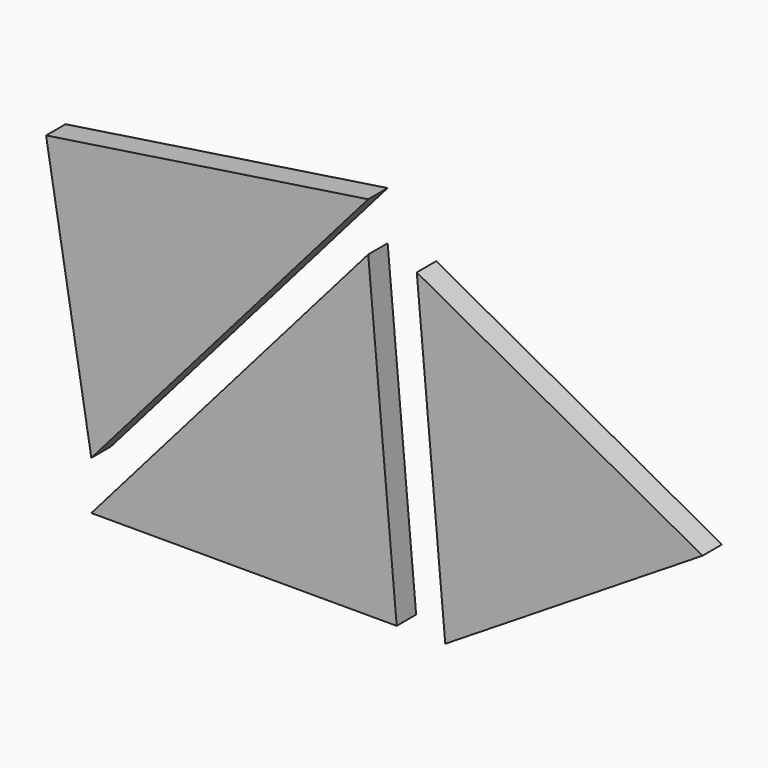
from build123d import *

# Parameters (mm, degrees)
F2_DEPTH = 6.35


with BuildPart() as f2:
    # F1 (on Front) → F2 (new body)
    with BuildSketch(Plane.XZ):
        Polygon((-72.408525, -70.386592), (0, 12.7), (-84.23965, 0), align=None)
        Polygon((-72.408525, -83.086592), (7.443995, -83.086592), (0, 0), align=None)
        Polygon((20.143995, -83.086592), (87.4075, -40.943841), (12.7, 0), align=None)
    extrude(amount=F2_DEPTH)


solid = f2.part
